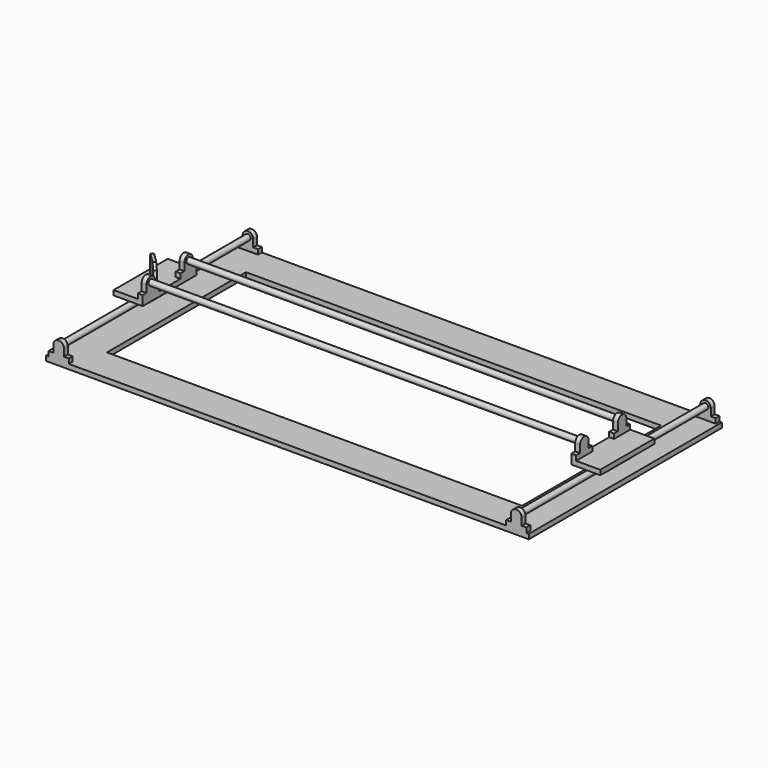
from build123d import *

# Parameters (mm, degrees)
F0_W      = 1000
F0_H      = 500
F0_W_2    = 860
F0_H_2    = 360
F1_DEPTH  = 5
F2_R      = 6
F3_DEPTH  = 10
F5_R      = 6
F6_DEPTH  = 500
F8_DEPTH  = 30
F10_W     = 60
F10_H     = 140
F11_DEPTH = 10
F13_R     = 6
F14_DEPTH = 10
F17_R     = 6
F18_DEPTH = 908
F20_DEPTH = 40
F22_SIZE  = 10
F21_R     = 12.5
F23_DEPTH = 1


with BuildPart() as f1:
    # F0 (on Top) → F1 (new body, symmetric)
    with BuildSketch(Plane.XY):
        Rectangle(F0_W, F0_H)
        Rectangle(F0_W_2, F0_H_2, mode=Mode.SUBTRACT)
    extrude(amount=F1_DEPTH, both=True)

    # F2 (on face) → F3 (join)
    with BuildSketch(Plane.XZ.offset(250)):
        with BuildLine():
            ThreePointArc((-474, 41), (-481.7781745931, 37.7781745931), (-485, 30))
            Line((-485, 30), (-485, 15))
            Line((-485, 15), (-495, 15))
            Line((-495, 15), (-495, 5))
            Line((-495, 5), (-453, 5))
            Line((-453, 5), (-453, 15))
            Line((-453, 15), (-463, 15))
            Line((-463, 15), (-463, 30))
            ThreePointArc((-463, 30), (-466.2218254069, 37.7781745931), (-474, 41))
        make_face()
        with Locations((-474, 30)):
            Circle(F2_R, mode=Mode.SUBTRACT)
        with BuildLine():
            ThreePointArc((474, 41), (466.2218254069, 37.7781745931), (463, 30))
            Line((463, 30), (463, 15))
            Line((463, 15), (453, 15))
            Line((453, 15), (453, 5))
            Line((453, 5), (495, 5))
            Line((495, 5), (495, 15))
            Line((495, 15), (485, 15))
            Line((485, 15), (485, 30))
            ThreePointArc((485, 30), (481.7781745931, 37.7781745931), (474, 41))
        make_face()
        with Locations((474, 30)):
            Circle(F2_R, mode=Mode.SUBTRACT)
    extrude(amount=-F3_DEPTH)

    # F4: F1 across plane


with BuildPart() as f1_1:
    add(f1.part)
    add(f1.part.mirror(Plane.XZ))

    # F5 (on face) → F6 (join, through all)
    with BuildSketch(Plane.XZ.offset(250)):
        with Locations((-474, 30)):
            Circle(F5_R)
        with Locations((474, 30)):
            Circle(F5_R)
    extrude(amount=-F6_DEPTH)

    # F7 (on Front) → F8 (join, symmetric)
    with BuildSketch(Plane.XZ):
        with BuildLine():
            ThreePointArc((-474, 21), (-469.7722855411, 22.0547856886), (-466.5355339059, 24.9719043435))
            Line((-466.5355339059, 24.9719043435), (-461.5355339059, 24.9719043435))
            Line((-461.5355339059, 24.9719043435), (-458, 28.5074382495))
            Line((-458, 28.5074382495), (-458, 40))
            Line((-458, 40), (-474, 40))
            Line((-474, 40), (-490, 40))
            Line((-490, 40), (-490, 28.5074382495))
            Line((-490, 28.5074382495), (-486.4644660941, 24.9719043435))
            Line((-486.4644660941, 24.9719043435), (-481.4644660941, 24.9719043435))
            ThreePointArc((-481.4644660941, 24.9719043435), (-478.2277144589, 22.0547856886), (-474, 21))
        make_face()
    extrude(amount=F8_DEPTH, both=True)

    # F9: F1 across plane


with BuildPart() as f1_2:
    add(f1_1.part)
    add(f1_1.part.mirror(Plane.YZ))

    # F10 (on face) → F11 (join)
    with BuildSketch(Plane.XY.offset(40)):
        with Locations((-474, 0)):
            Rectangle(F10_W, F10_H)
    extrude(amount=F11_DEPTH)

    # F12: F1 across plane


with BuildPart() as f1_3:
    add(f1_2.part)
    add(f1_2.part.mirror(Plane.YZ))

    # F13 (on face) → F14 (join)
    with BuildSketch(Plane.YZ.offset(-444)):
        with BuildLine():
            Line((28, 60), (28, 50))
            Line((28, 50), (49, 50))
            Line((49, 50), (70, 50))
            Line((70, 50), (70, 60))
            Line((70, 60), (60, 60))
            Line((60, 60), (60, 75))
            ThreePointArc((60, 75), (56.7781745931, 82.7781745931), (49, 86))
            ThreePointArc((49, 86), (41.2218254069, 82.7781745931), (38, 75))
            Line((38, 75), (38, 60))
            Line((38, 60), (28, 60))
        make_face()
        with Locations((49, 75)):
            Circle(F13_R, mode=Mode.SUBTRACT)
    extrude(amount=-F14_DEPTH)

    # F15: F1 across plane


with BuildPart() as f1_4:
    add(f1_3.part)
    add(f1_3.part.mirror(Plane.XZ))

    # F16: F1 across plane


with BuildPart() as f1_5:
    add(f1_4.part)
    add(f1_4.part.mirror(Plane.YZ))

    # F17 (on face) → F18 (join, through all)
    with BuildSketch(Plane(origin=(-454, 0, 0), x_dir=(0, -1, 0), z_dir=(-1, 0, 0))):
        with Locations((-49, 75)):
            Circle(F17_R)
        with Locations((49, 75)):
            Circle(F17_R)
    extrude(amount=-F18_DEPTH)

    # F19 (on face) → F20 (join)
    with BuildSketch(Plane.XY.offset(50)):
        Polygon((-456.3223304703, -17.6776695297), (-491.6776695297, 17.6776695297), (-495.9203102168, 13.4350288425), (-460.5649711575, -21.9203102168), align=None)
    extrude(amount=F20_DEPTH)

    # F22
    f22_edges = [f1_5.edges().sort_by_distance(p)[0] for p in [
        (-458.443651, -19.79899, 90),
        (-493.79899, 15.556349, 90),
    ]]
    chamfer(f22_edges, length=F22_SIZE)

    # F21 (on face) → F23 (cut)
    with BuildSketch(Plane(origin=(-237, -237, 0), x_dir=(-0.7071067812, 0.7071067812, 0), z_dir=(0.7071067812, 0.7071067812, 0))):
        with Locations((335.1686142824, 70)):
            Circle(F21_R)
    extrude(amount=-F23_DEPTH, mode=Mode.SUBTRACT)


solid = f1_5.part
